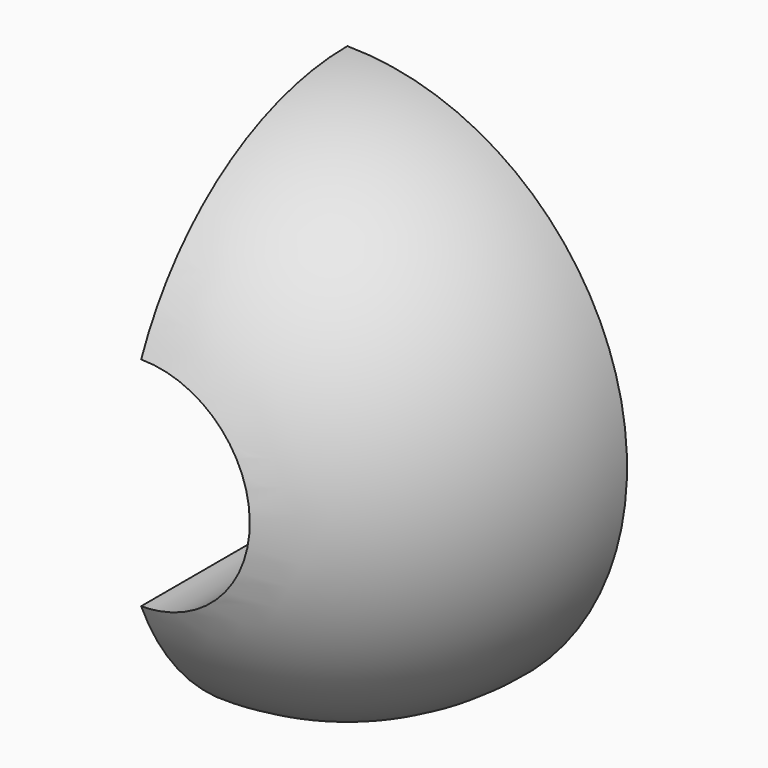
from build123d import *

# Parameters (mm, degrees)
F1_ANGLE = 90
F2_R     = 9.450988
F3_DEPTH = 24.341017


with BuildPart() as f1:
    # F0 (on Front) → F1 (revolve)
    with BuildSketch(Plane.XZ):
        with BuildLine():
            ThreePointArc((0, -24.340017), (24.340017, 0), (0, 24.340017))
            Line((0, 24.340017), (0, -24.340017))
        make_face()
    revolve(axis=Axis((0, 0, 0), (0, 0, -1)), revolution_arc=F1_ANGLE)

    # F2 (on face) → F3 (cut, through all)
    with BuildSketch(Plane(origin=(0, 0, 0), x_dir=(-1, 0, 0), z_dir=(0, 1, 0))):
        Circle(F2_R)
    extrude(amount=-F3_DEPTH, mode=Mode.SUBTRACT)


solid = f1.part
